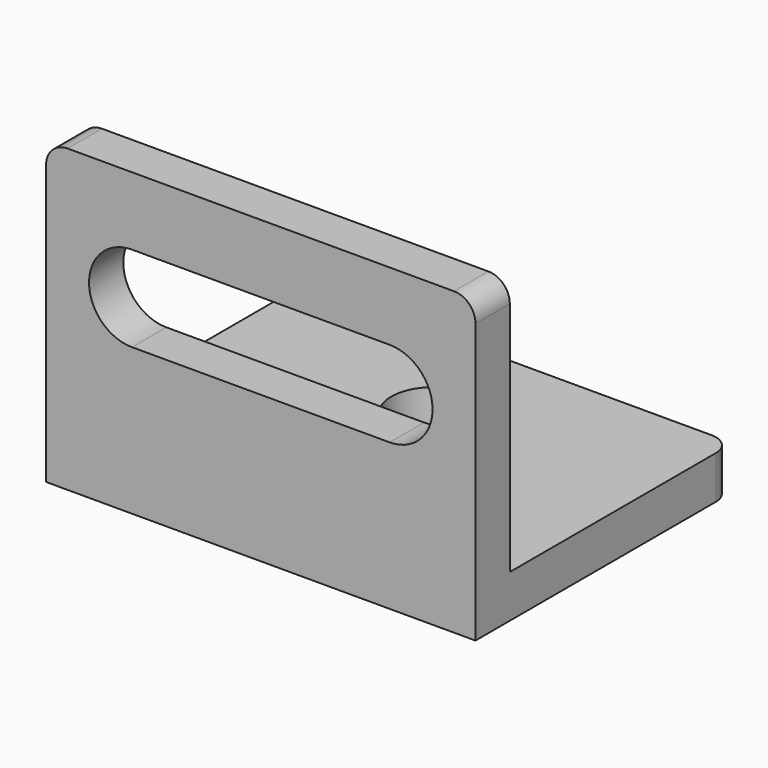
from build123d import *

# Parameters (mm, degrees)
SKETCH_W        = 20
SKETCH_H        = 15
PAD_DEPTH       = 2
SKETCH001_W     = 20
SKETCH001_H     = 2
PAD001_DEPTH    = 12
POCKET002_DEPTH = 5
COPYSKETCH005_R = 2
POCKET_DEPTH    = 5
FILLET_R        = 1
FILLET001_R     = 1
FILLET002_R     = 1
FILLET003_R     = 1


with BuildPart() as part:
    # Sketch → Pad (new body)
    with BuildSketch(Plane.XY):
        Rectangle(SKETCH_W, SKETCH_H)
    extrude(amount=PAD_DEPTH)

    # Sketch001 (on Face6 of Pad) → Pad001 (join)
    with BuildSketch(Plane.XY.offset(2)):
        with Locations((0, -6.5)):
            Rectangle(SKETCH001_W, SKETCH001_H)
    extrude(amount=PAD001_DEPTH)

    # Sketch004 → Pocket002 (cut)
    with BuildSketch(Plane(origin=(0, -2.5, 0), x_dir=(-1, 0, 0), z_dir=(0, 1, 0))):
        with BuildLine():
            Line((-6, 6.828421), (6, 6.828421))
            ThreePointArc((6, 6.828421), (8, 8.828421), (6, 10.828421))
            Line((6, 10.828421), (-6, 10.828421))
            ThreePointArc((-6, 10.828421), (-8, 8.828421), (-6, 6.828421))
        make_face()
    extrude(amount=-POCKET002_DEPTH, mode=Mode.SUBTRACT)

    # CopySketch005 → Pocket (cut)
    with BuildSketch(Plane.XY.offset(2)):
        with Locations((0, 2.587535)):
            Circle(COPYSKETCH005_R)
    extrude(amount=-POCKET_DEPTH, mode=Mode.SUBTRACT)

    # Fillet
    fillet_edges = [part.edges().sort_by_distance(p)[0] for p in [
        (-10, 7.5, 1),
    ]]
    fillet(fillet_edges, radius=FILLET_R)

    # Fillet001
    fillet001_edges = [part.edges().sort_by_distance(p)[0] for p in [
        (10, 7.5, 1),
    ]]
    fillet(fillet001_edges, radius=FILLET001_R)

    # Fillet002
    fillet002_edges = [part.edges().sort_by_distance(p)[0] for p in [
        (-10, -6.5, 14),
    ]]
    fillet(fillet002_edges, radius=FILLET002_R)

    # Fillet003
    fillet003_edges = [part.edges().sort_by_distance(p)[0] for p in [
        (10, -6.5, 14),
    ]]
    fillet(fillet003_edges, radius=FILLET003_R)


solid = part.part
